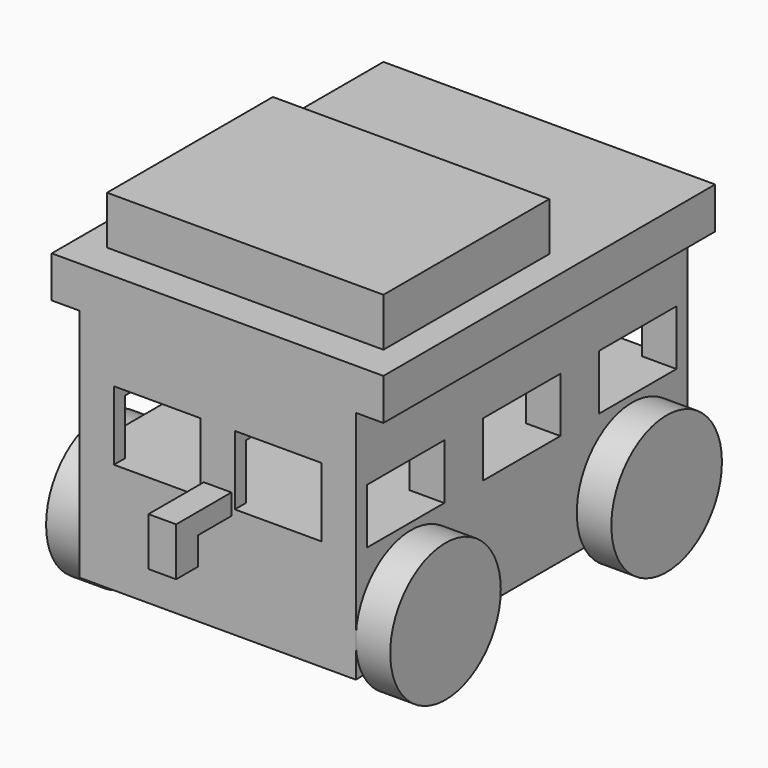
from build123d import *

# Parameters (mm, degrees)
F1_DEPTH  = 76.2
F2_W      = 17.78
F2_H      = 10.16
F2_H_2    = 10.084178
F3_DEPTH  = 50.8
F4_R      = 12.7
F5_DEPTH  = 6.35
F7_W      = 15.875
F7_H      = 12.7
F8_DEPTH  = 76.2
F9_W      = 50.8
F9_H      = 38.1
F10_DEPTH = 8.89
F12_DEPTH = 27.94
F13_DEPTH = 22.86
F6_R      = 12.7
F14_DEPTH = 6.35


with BuildPart() as f1:
    # F0 (on Front) → F1 (new body)
    with BuildSketch(Plane.XZ):
        Polygon((55.88, 50.8), (0, 50.8), (-5.08, 50.8), (-5.08, 43.18), (0, 43.18), (0, 0), (50.8, 0), (50.8, 43.18), (55.88, 43.18), align=None)
    extrude(amount=F1_DEPTH)

    # F2 (on face) → F3 (cut)
    with BuildSketch(Plane.YZ.offset(50.8)):
        with Locations((-64.77, 25.4)):
            Rectangle(F2_W, F2_H)
        with Locations((-38.1, 25.362089)):
            Rectangle(F2_W, F2_H_2)
        with Locations((-11.43, 25.4)):
            Rectangle(F2_W, F2_H)
    extrude(amount=-F3_DEPTH, mode=Mode.SUBTRACT)

    # F7 (on face) → F8 (cut)
    with BuildSketch(Plane(origin=(0, 0, 0), x_dir=(-1, 0, 0), z_dir=(0, 1, 0))):
        with Locations((-36.5125, 26.67)):
            Rectangle(F7_W, F7_H)
        with Locations((-14.2875, 26.67)):
            Rectangle(F7_W, F7_H)
    extrude(amount=-F8_DEPTH, mode=Mode.SUBTRACT)

    # F11 (on face) → F12 (join)
    with BuildSketch(Plane.YZ.offset(50.8)):
        Polygon((-76.2, 19.05), (-76.2, 22.86), (-88.9, 22.86), (-88.9, 13.97), (-83.82, 13.97), (-83.82, 19.05), align=None)
    extrude(amount=-F12_DEPTH)

    # F11 (on face) → F13 (cut)
    with BuildSketch(Plane.YZ.offset(50.8)):
        Polygon((-76.2, 19.05), (-76.2, 22.86), (-88.9, 22.86), (-88.9, 13.97), (-83.82, 13.97), (-83.82, 19.05), align=None)
    extrude(amount=-F13_DEPTH, mode=Mode.SUBTRACT)


with BuildPart() as f5:
    # F4 (on face) → F5 (new body)
    with BuildSketch(Plane.YZ.offset(50.8)):
        with Locations((-63.533098, 6.35)):
            Circle(F4_R)
        with Locations((-12.733098, 6.35)):
            Circle(F4_R)
    extrude(amount=F5_DEPTH)


with BuildPart() as f10:
    # F9 (on face) → F10 (new body)
    with BuildSketch(Plane.XY.offset(50.8)):
        with Locations((25.4, -50.8)):
            Rectangle(F9_W, F9_H)
    extrude(amount=F10_DEPTH)


with BuildPart() as f14:
    # F6 (on face) → F14 (new body)
    with BuildSketch(Plane(origin=(0, 0, 0), x_dir=(0, -1, 0), z_dir=(-1, 0, 0))):
        with Locations((63.213013, 6.35)):
            Circle(F6_R)
        with Locations((12.413013, 6.35)):
            Circle(F6_R)
    extrude(amount=F14_DEPTH)


solid = Compound([f1.part, f5.part, f10.part, f14.part])
